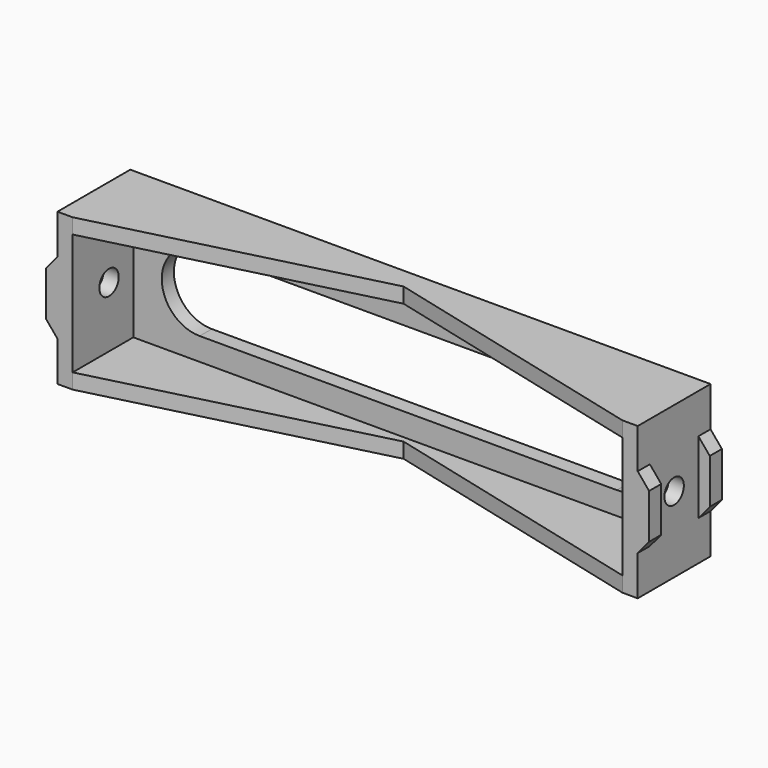
from build123d import *

# Parameters (mm, degrees)
PAD_DEPTH       = 20
PAD001_DEPTH    = 12
SKETCH002_R     = 1.6
POCKET_DEPTH    = 3.5
SKETCH003_W     = 8
SKETCH003_H     = 9.5
POCKET001_DEPTH = 1.5
PAD002_DEPTH    = 20
SKETCH005_W     = 39.25
SKETCH005_H     = 16
POCKET002_DEPTH = 10
POCKET003_DEPTH = 2


with BuildPart() as part:
    # Sketch → Pad (new body)
    with BuildSketch(Plane.XY):
        Polygon((-36.25, -6), (-38.25, -6), (-38.25, 6), (38.25, 6), (38.25, -6), (36.25, -6), (36.25, 4), (-36.25, 4), align=None)
    extrude(amount=PAD_DEPTH)

    # Sketch001 (on Face1 of Pad) → Pad001 (join)
    with BuildSketch(Plane.XZ.offset(6)):
        Polygon((-38.25, 5.25), (-38.25, 14.75), (-39.75, 12.95), (-39.75, 7.05), align=None)
    pad001 = extrude(amount=-PAD001_DEPTH)

    # Sketch002 (on Face12 of Pad001) → Pocket (cut)
    with BuildSketch(Plane(origin=(-39.75, 0, 0), x_dir=(0, -1, 0), z_dir=(-1, 0, 0))):
        with Locations((0, 10)):
            Circle(SKETCH002_R)
    pocket = extrude(amount=-POCKET_DEPTH, mode=Mode.SUBTRACT)

    # Sketch003 (on Face13 of Pocket) → Pocket001 (cut)
    with BuildSketch(Plane(origin=(-39.75, 0, 0), x_dir=(0, -1, 0), z_dir=(-1, 0, 0))):
        with Locations((0, 10)):
            Rectangle(SKETCH003_W, SKETCH003_H)
    pocket001 = extrude(amount=-POCKET001_DEPTH, mode=Mode.SUBTRACT)

    # Sketch004 (on Face6 of Pocket001) → Pad002 (join)
    with BuildSketch(Plane(origin=(0, 0, 0), x_dir=(1, 0, 0), z_dir=(0, 0, -1))):
        Polygon((-36.25, -4), (-36.25, 6), (3, -4), align=None)
    pad002 = extrude(amount=-PAD002_DEPTH)

    # Sketch005 (on Face1 of Pad002) → Pocket002 (cut)
    with BuildSketch(Plane.XZ.offset(6)):
        with Locations((-16.625, 10)):
            Rectangle(SKETCH005_W, SKETCH005_H)
    pocket002 = extrude(amount=-POCKET002_DEPTH, mode=Mode.SUBTRACT)

    # Mirrored: Pad001, Pocket, Pocket001, Pad002, Pocket002 across YZ
    add(pad001.mirror(Plane.YZ))
    add(pocket.mirror(Plane.YZ), mode=Mode.SUBTRACT)
    add(pocket001.mirror(Plane.YZ), mode=Mode.SUBTRACT)
    add(pad002.mirror(Plane.YZ))
    add(pocket002.mirror(Plane.YZ), mode=Mode.SUBTRACT)

    # Sketch006 (on Face12 of Mirrored) → Pocket003 (cut)
    with BuildSketch(Plane.XZ.offset(-4)):
        with BuildLine():
            ThreePointArc((-27.5, 15), (-32.5, 10), (-27.5, 5))
            Line((-27.5, 5), (27.5, 5))
            ThreePointArc((27.5, 5), (32.5, 10), (27.5, 15))
            Line((27.5, 15), (-27.5, 15))
        make_face()
    extrude(amount=-POCKET003_DEPTH, mode=Mode.SUBTRACT)


solid = part.part
